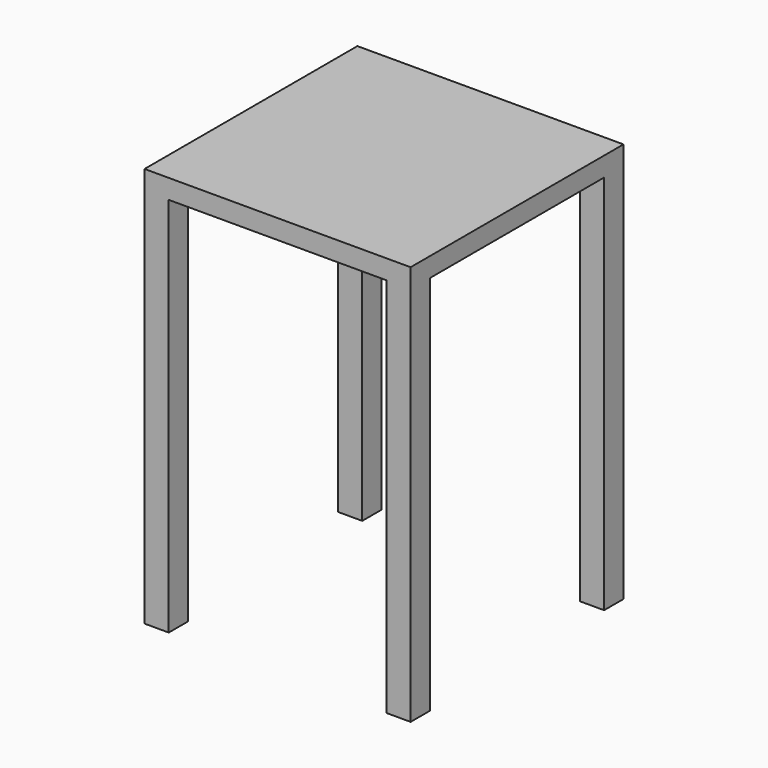
from build123d import *

# Parameters (mm, degrees)
F0_W     = 698.5
F0_H     = 698.5
F1_DEPTH = 50.8
F2_W     = 63.5
F2_H     = 63.5
F3_DEPTH = 1000.125


with BuildPart() as f1:
    # F0 (on Top) → F1 (new body)
    with BuildSketch(Plane.XY):
        with Locations((-7.260645, 64.576814)):
            Rectangle(F0_W, F0_H)
    extrude(amount=F1_DEPTH)

    # F2 (on face) → F3 (join)
    with BuildSketch(Plane(origin=(0, 0, 0), x_dir=(1, 0, 0), z_dir=(0, 0, -1))):
        with Locations((-324.760645, 252.923186)):
            Rectangle(F2_W, F2_H)
        with Locations((310.239355, 252.923186)):
            Rectangle(F2_W, F2_H)
        with Locations((-324.760645, -382.076814)):
            Rectangle(F2_W, F2_H)
        with Locations((310.239355, -382.076814)):
            Rectangle(F2_W, F2_H)
    extrude(amount=F3_DEPTH)


solid = f1.part
